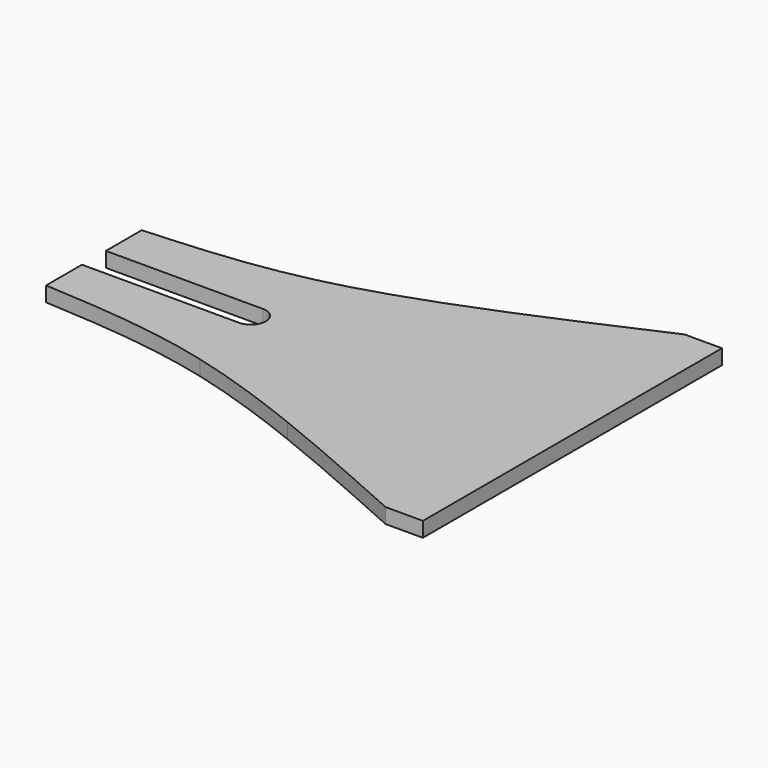
from build123d import *

# Parameters (mm, degrees)
F1_DEPTH = 4


with BuildPart() as f1:
    # F0 (on Top) → F1 (new body)
    with BuildSketch(Plane.XY):
        with BuildLine():
            Line((105.8786432892, 0), (105.8786432892, 50))
            Line((105.8786432892, 50), (95.8786432892, 50))
            add(Edge.make_bspline(
                [(23.8786432892, 22), (45.505090499, 27.5289789288), (70.6918668941, 38.7644894644), (95.8786432892, 50)],
                knots=[0.4365923392, 0.4365923392, 0.4365923392, 0.4365923392, 1, 1, 1, 1], degree=3))
            Line((23.8786432892, 22), (23.8786432892, 4))
            Line((23.8786432892, 4), (23.8786432892, 0))
            Line((23.8786432892, 0), (105.8786432892, 0))
        make_face()
        with BuildLine():
            Line((105.8786432892, -26.7174374312), (105.8786432892, 0))
            Line((105.8786432892, 0), (23.8786432892, 0))
            Line((23.8786432892, 0), (23.8786432892, -4))
            Line((23.8786432892, -4), (23.8786432892, -22))
            add(Edge.make_bspline(
                [(23.8786432892, -22), (33.8990177867, -24.5617910754), (44.6837342437, -28.3486771698), (55.8786432892, -32.7930240913)],
                knots=[0.4365923392, 0.4365923392, 0.4365923392, 0.4365923392, 0.6976410312, 0.6976410312, 0.6976410312, 0.6976410312], degree=3))
            Line((55.8786432892, -32.7930240913), (55.8786432892, -26.7174374312))
            Line((55.8786432892, -26.7174374312), (105.8786432892, -26.7174374312))
        make_face()
        with BuildLine():
            Line((105.8786432892, -50), (105.8786432892, -26.7174374312))
            Line((105.8786432892, -26.7174374312), (55.8786432892, -26.7174374312))
            Line((55.8786432892, -26.7174374312), (55.8786432892, -32.7930240913))
            add(Edge.make_bspline(
                [(55.8786432892, -32.7930240913), (68.8451175885, -37.9406773594), (82.3618804388, -43.9703386797), (95.8786432892, -50)],
                knots=[0.6976410312, 0.6976410312, 0.6976410312, 0.6976410312, 1, 1, 1, 1], degree=3))
            Line((95.8786432892, -50), (105.8786432892, -50))
        make_face()
        with BuildLine():
            ThreePointArc((19.8786432892, 4), (22.707070414, 2.8284271247), (23.8786432892, 0))
            Line((23.8786432892, 0), (23.8786432892, 4))
            Line((23.8786432892, 4), (23.8786432892, 22))
            add(Edge.make_bspline(
                [(-22.1213567108, 16), (-7.5006722886, 16.8577591216), (7.1200121336, 17.7155182432), (23.8786432892, 22)],
                knots=[0, 0, 0, 0, 0.4365923392, 0.4365923392, 0.4365923392, 0.4365923392], degree=3))
            Line((-22.1213567108, 16), (-22.1213567108, 4))
            Line((-22.1213567108, 4), (19.8786432892, 4))
        make_face()
        with BuildLine():
            Line((23.8786432892, -4), (23.8786432892, 0))
            ThreePointArc((23.8786432892, 0), (22.707070414, -2.8284271247), (19.8786432892, -4))
            Line((19.8786432892, -4), (-22.1213567108, -4))
            Line((-22.1213567108, -4), (-22.1213567108, -16))
            add(Edge.make_bspline(
                [(-22.1213567108, -16), (-7.5006722886, -16.8577591216), (7.1200121336, -17.7155182432), (23.8786432892, -22)],
                knots=[0, 0, 0, 0, 0.4365923392, 0.4365923392, 0.4365923392, 0.4365923392], degree=3))
            Line((23.8786432892, -22), (23.8786432892, -4))
        make_face()
    extrude(amount=F1_DEPTH)


solid = f1.part
